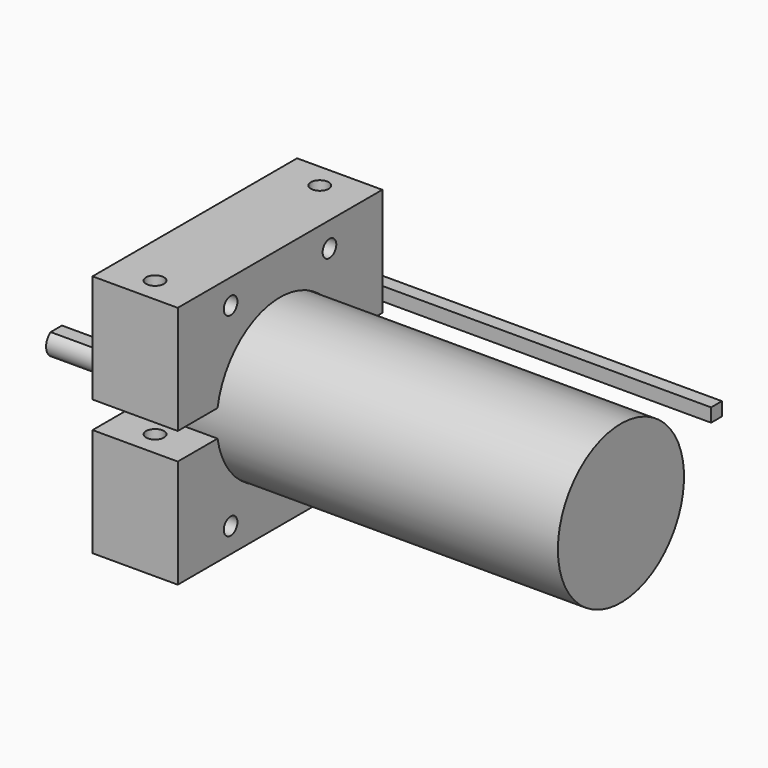
from build123d import *

# Parameters (mm, degrees)
F1_DEPTH  = 20
F2_R      = 2.1
F3_DEPTH  = 57.2
F4_W      = 3.175
F4_H      = 3.175
F5_DEPTH  = 90
F6_DEPTH  = 100
F7_DEPTH  = 6.5
F8_R      = 2
F9_DEPTH  = 20
F11_DEPTH = 26


with BuildPart() as f1:
    # F0 (on Right) → F1 (new body)
    with BuildSketch(Plane.YZ):
        with BuildLine():
            Line((29.8970502992, 27.6619047619), (-30.1029497008, 27.6619047619))
            Line((-30.1029497008, 27.6619047619), (-30.1029497008, 2.2178515295))
            Line((-30.1029497008, 2.2178515295), (-18.4332524806, 2.2178515295))
            ThreePointArc((-18.4332524806, 2.2178515295), (-0.1029497008, 17.6619047619), (18.227353079, 2.2178515295))
            Line((18.227353079, 2.2178515295), (29.8970502992, 2.2178515295))
            Line((29.8970502992, 2.2178515295), (29.8970502992, 27.6619047619))
        make_face()
    extrude(amount=F1_DEPTH)


with BuildPart() as f1b:
    # F0 (on Right) → F1, piece 2 (new body)
    with BuildSketch(Plane.YZ):
        with BuildLine():
            Line((-30.1029497008, -29.5380952381), (29.8970502992, -29.5380952381))
            Line((29.8970502992, -29.5380952381), (29.8970502992, -4.0940420057))
            Line((29.8970502992, -4.0940420057), (18.227353079, -4.0940420057))
            ThreePointArc((18.227353079, -4.0940420057), (-0.1029497008, -19.5380952381), (-18.4332524806, -4.0940420057))
            Line((-18.4332524806, -4.0940420057), (-30.1029497008, -4.0940420057))
            Line((-30.1029497008, -4.0940420057), (-30.1029497008, -29.5380952381))
        make_face()
    extrude(amount=F1_DEPTH)


with BuildPart() as f3_tool:
    # F2 (on face) → F3 (new body, through all)
    with BuildSketch(Plane.XY.offset(27.6619047619)):
        with Locations((10, -24.2681010907)):
            Circle(F2_R)
        with Locations((10, 24.0622016891)):
            Circle(F2_R)
    extrude(amount=-F3_DEPTH)


with BuildPart() as f1_1:
    add(f1.part)

    # F3: cut by f3_tool
    add(f3_tool.part, mode=Mode.SUBTRACT)


with BuildPart() as f1b_1:
    add(f1b.part)

    # F3: cut by f3_tool
    add(f3_tool.part, mode=Mode.SUBTRACT)


with BuildPart() as f5:
    # F4 (on Right) → F5 (new body)
    with BuildSketch(Plane.YZ):
        with Locations((40.4263884993, 0.2473239583)):
            Rectangle(F4_W, F4_H)
    extrude(amount=F5_DEPTH)


with BuildPart() as f6:
    # F0 (on Right) → F6 (new body)
    with BuildSketch(Plane.YZ):
        with BuildLine():
            Line((12.3970502992, -0.9380952381), (18.3970502992, -0.9380952381))
            ThreePointArc((18.3970502992, -0.9380952381), (-0.1029497008, 17.5619047619), (-18.6029497008, -0.9380952381))
            Line((-18.6029497008, -0.9380952381), (-12.6029497008, -0.9380952381))
            ThreePointArc((-12.6029497008, -0.9380952381), (-0.1029497008, 11.5619047619), (12.3970502992, -0.9380952381))
        make_face()
        with BuildLine():
            ThreePointArc((-0.1029497008, -13.4380952381), (8.735885064, -9.7769300029), (12.3970502992, -0.9380952381))
            Line((12.3970502992, -0.9380952381), (-12.6029497008, -0.9380952381))
            ThreePointArc((-12.6029497008, -0.9380952381), (-8.9417844656, -9.7769300029), (-0.1029497008, -13.4380952381))
        make_face()
        with BuildLine():
            ThreePointArc((4.8970502992, -8.4380952381), (3.4325842051, -11.973629144), (-0.1029497008, -13.4380952381))
            ThreePointArc((-0.1029497008, -13.4380952381), (-3.6384836067, -4.9025613322), (4.8970502992, -8.4380952381))
        make_face(mode=Mode.SUBTRACT)
        with BuildLine():
            ThreePointArc((-18.6029497008, -0.9380952381), (-0.1029497008, -19.4380952381), (18.3970502992, -0.9380952381))
            Line((18.3970502992, -0.9380952381), (12.3970502992, -0.9380952381))
            ThreePointArc((12.3970502992, -0.9380952381), (8.735885064, -9.7769300029), (-0.1029497008, -13.4380952381))
            ThreePointArc((-0.1029497008, -13.4380952381), (-8.9417844656, -9.7769300029), (-12.6029497008, -0.9380952381))
            Line((-12.6029497008, -0.9380952381), (-18.6029497008, -0.9380952381))
        make_face()
        with BuildLine():
            Line((-12.6029497008, -0.9380952381), (12.3970502992, -0.9380952381))
            ThreePointArc((12.3970502992, -0.9380952381), (-0.1029497008, 11.5619047619), (-12.6029497008, -0.9380952381))
        make_face()
        with BuildLine():
            ThreePointArc((4.8970502992, -8.4380952381), (-3.6384836067, -4.9025613322), (-0.1029497008, -13.4380952381))
            ThreePointArc((-0.1029497008, -13.4380952381), (3.4325842051, -11.973629144), (4.8970502992, -8.4380952381))
        make_face()
    extrude(amount=F6_DEPTH)

    # F0 (on Right) → F7 (join)
    with BuildSketch(Plane.YZ):
        with BuildLine():
            ThreePointArc((4.8970502992, -8.4380952381), (-3.6384836067, -4.9025613322), (-0.1029497008, -13.4380952381))
            ThreePointArc((-0.1029497008, -13.4380952381), (3.4325842051, -11.973629144), (4.8970502992, -8.4380952381))
        make_face()
    extrude(amount=-F7_DEPTH)

    # F10 (on face) → F11 (join)
    with BuildSketch(Plane(origin=(-6.5, 0, 0), x_dir=(0, -1, 0), z_dir=(-1, 0, 0))):
        with BuildLine():
            Line((0.1029497008, -5.9380952381), (-1.5553626944, -5.9380952381))
            ThreePointArc((-1.5553626944, -5.9380952381), (0.1029497008, -11.4380952381), (1.761262096, -5.9380952381))
            Line((1.761262096, -5.9380952381), (0.1029497008, -5.9380952381))
        make_face()
    extrude(amount=F11_DEPTH)


with BuildPart() as f9_tool:
    # F8 (on Right) → F9 (new body, through all)
    with BuildSketch(Plane.YZ):
        with Locations((14.3970502992, -23.714179186)):
            Circle(F8_R)
        with Locations((-14.6029497008, -23.714179186)):
            Circle(F8_R)
        with Locations((14.3970502992, 21.8379887098)):
            Circle(F8_R)
        with Locations((-14.6029497008, 21.8379887098)):
            Circle(F8_R)
    extrude(amount=F9_DEPTH)


with BuildPart() as f1_2:
    add(f1_1.part)

    # F9: cut by f9_tool
    add(f9_tool.part, mode=Mode.SUBTRACT)


with BuildPart() as f1b_2:
    add(f1b_1.part)

    # F9: cut by f9_tool
    add(f9_tool.part, mode=Mode.SUBTRACT)


solid = Compound([f5.part, f6.part, f1_2.part, f1b_2.part])
